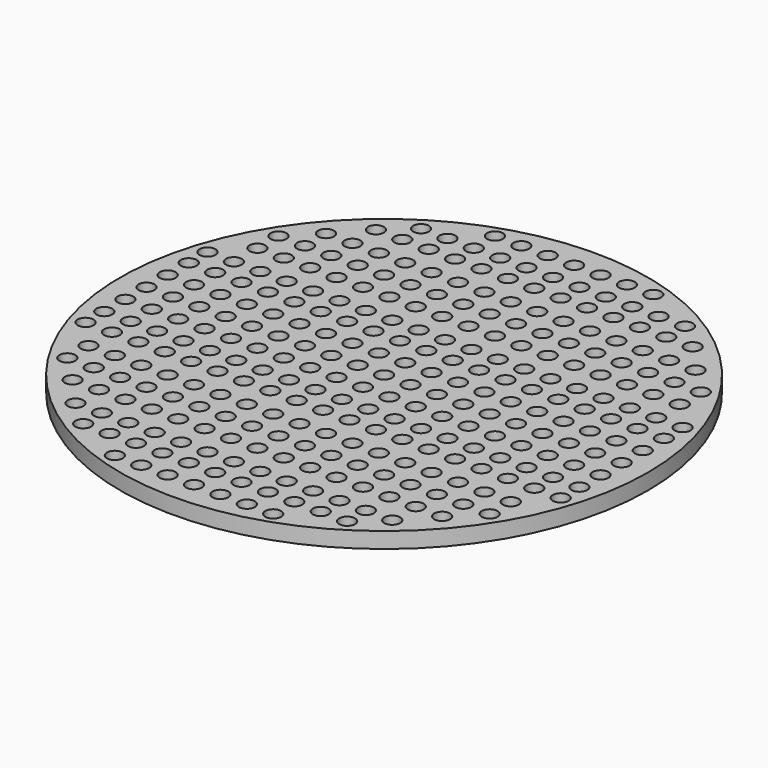
from build123d import *

# Parameters (mm, degrees)
F0_R     = 50
F0_R_2   = 1.5
F1_DEPTH = 3


with BuildPart() as f1:
    # F0 (on Top) → F1 (new body)
    with BuildSketch(Plane.XY):
        Circle(F0_R)
        with Locations((-30, -35.565041)):
            Circle(F0_R_2, mode=Mode.SUBTRACT)
        with Locations((-35, -30)):
            Circle(F0_R_2, mode=Mode.SUBTRACT)
        with Locations((-30, -30)):
            Circle(F0_R_2, mode=Mode.SUBTRACT)
        with Locations((-15, -45)):
            Circle(F0_R_2, mode=Mode.SUBTRACT)
        with Locations((-25, -40)):
            Circle(F0_R_2, mode=Mode.SUBTRACT)
        with Locations((-20, -40)):
            Circle(F0_R_2, mode=Mode.SUBTRACT)
        with Locations((-15, -40)):
            Circle(F0_R_2, mode=Mode.SUBTRACT)
        with Locations((-10, -45)):
            Circle(F0_R_2, mode=Mode.SUBTRACT)
        with Locations((-5, -45)):
            Circle(F0_R_2, mode=Mode.SUBTRACT)
        with Locations((-10, -40)):
            Circle(F0_R_2, mode=Mode.SUBTRACT)
        with Locations((-5, -40)):
            Circle(F0_R_2, mode=Mode.SUBTRACT)
        with Locations((-25, -35.565041)):
            Circle(F0_R_2, mode=Mode.SUBTRACT)
        with Locations((-20, -35.565041)):
            Circle(F0_R_2, mode=Mode.SUBTRACT)
        with Locations((-15, -35.565041)):
            Circle(F0_R_2, mode=Mode.SUBTRACT)
        with Locations((-25, -30)):
            Circle(F0_R_2, mode=Mode.SUBTRACT)
        with Locations((-20, -30)):
            Circle(F0_R_2, mode=Mode.SUBTRACT)
        with Locations((-15, -30)):
            Circle(F0_R_2, mode=Mode.SUBTRACT)
        with Locations((-10, -35.565041)):
            Circle(F0_R_2, mode=Mode.SUBTRACT)
        with Locations((-5, -35.565041)):
            Circle(F0_R_2, mode=Mode.SUBTRACT)
        with Locations((-10, -30)):
            Circle(F0_R_2, mode=Mode.SUBTRACT)
        with Locations((-5, -30)):
            Circle(F0_R_2, mode=Mode.SUBTRACT)
        with Locations((-40, -25)):
            Circle(F0_R_2, mode=Mode.SUBTRACT)
        with Locations((-40, -20)):
            Circle(F0_R_2, mode=Mode.SUBTRACT)
        with Locations((-45, -14.434959)):
            Circle(F0_R_2, mode=Mode.SUBTRACT)
        with Locations((-40, -14.434959)):
            Circle(F0_R_2, mode=Mode.SUBTRACT)
        with Locations((-35, -25)):
            Circle(F0_R_2, mode=Mode.SUBTRACT)
        with Locations((-35, -20)):
            Circle(F0_R_2, mode=Mode.SUBTRACT)
        with Locations((-30, -25)):
            Circle(F0_R_2, mode=Mode.SUBTRACT)
        with Locations((-30, -20)):
            Circle(F0_R_2, mode=Mode.SUBTRACT)
        with Locations((-35, -14.434959)):
            Circle(F0_R_2, mode=Mode.SUBTRACT)
        with Locations((-30, -14.434959)):
            Circle(F0_R_2, mode=Mode.SUBTRACT)
        with Locations((-45, -10)):
            Circle(F0_R_2, mode=Mode.SUBTRACT)
        with Locations((-40, -10)):
            Circle(F0_R_2, mode=Mode.SUBTRACT)
        with Locations((-45, -5)):
            Circle(F0_R_2, mode=Mode.SUBTRACT)
        with Locations((-40, -5)):
            Circle(F0_R_2, mode=Mode.SUBTRACT)
        with Locations((-35, -10)):
            Circle(F0_R_2, mode=Mode.SUBTRACT)
        with Locations((-30, -10)):
            Circle(F0_R_2, mode=Mode.SUBTRACT)
        with Locations((-35, -5)):
            Circle(F0_R_2, mode=Mode.SUBTRACT)
        with Locations((-30, -5)):
            Circle(F0_R_2, mode=Mode.SUBTRACT)
        with Locations((-25, -25)):
            Circle(F0_R_2, mode=Mode.SUBTRACT)
        with Locations((-20, -25)):
            Circle(F0_R_2, mode=Mode.SUBTRACT)
        with Locations((-25, -20)):
            Circle(F0_R_2, mode=Mode.SUBTRACT)
        with Locations((-20, -20)):
            Circle(F0_R_2, mode=Mode.SUBTRACT)
        with Locations((-15, -25)):
            Circle(F0_R_2, mode=Mode.SUBTRACT)
        with Locations((-15, -20)):
            Circle(F0_R_2, mode=Mode.SUBTRACT)
        with Locations((-25, -14.434959)):
            Circle(F0_R_2, mode=Mode.SUBTRACT)
        with Locations((-20, -14.434959)):
            Circle(F0_R_2, mode=Mode.SUBTRACT)
        with Locations((-15, -14.434959)):
            Circle(F0_R_2, mode=Mode.SUBTRACT)
        with Locations((-10, -25)):
            Circle(F0_R_2, mode=Mode.SUBTRACT)
        with Locations((-10, -20)):
            Circle(F0_R_2, mode=Mode.SUBTRACT)
        with Locations((-5, -25)):
            Circle(F0_R_2, mode=Mode.SUBTRACT)
        with Locations((-5, -20)):
            Circle(F0_R_2, mode=Mode.SUBTRACT)
        with Locations((-10, -14.434959)):
            Circle(F0_R_2, mode=Mode.SUBTRACT)
        with Locations((-5, -14.434959)):
            Circle(F0_R_2, mode=Mode.SUBTRACT)
        with Locations((-25, -10)):
            Circle(F0_R_2, mode=Mode.SUBTRACT)
        with Locations((-20, -10)):
            Circle(F0_R_2, mode=Mode.SUBTRACT)
        with Locations((-15, -10)):
            Circle(F0_R_2, mode=Mode.SUBTRACT)
        with Locations((-25, -5)):
            Circle(F0_R_2, mode=Mode.SUBTRACT)
        with Locations((-20, -5)):
            Circle(F0_R_2, mode=Mode.SUBTRACT)
        with Locations((-15, -5)):
            Circle(F0_R_2, mode=Mode.SUBTRACT)
        with Locations((-10, -10)):
            Circle(F0_R_2, mode=Mode.SUBTRACT)
        with Locations((-5, -10)):
            Circle(F0_R_2, mode=Mode.SUBTRACT)
        with Locations((-10, -5)):
            Circle(F0_R_2, mode=Mode.SUBTRACT)
        with Locations((-5, -5)):
            Circle(F0_R_2, mode=Mode.SUBTRACT)
        with Locations((0, -45)):
            Circle(F0_R_2, mode=Mode.SUBTRACT)
        with Locations((5, -45)):
            Circle(F0_R_2, mode=Mode.SUBTRACT)
        with Locations((10, -45)):
            Circle(F0_R_2, mode=Mode.SUBTRACT)
        with Locations((0, -40)):
            Circle(F0_R_2, mode=Mode.SUBTRACT)
        with Locations((5, -40)):
            Circle(F0_R_2, mode=Mode.SUBTRACT)
        with Locations((10, -40)):
            Circle(F0_R_2, mode=Mode.SUBTRACT)
        with Locations((15, -45)):
            Circle(F0_R_2, mode=Mode.SUBTRACT)
        with Locations((15, -40)):
            Circle(F0_R_2, mode=Mode.SUBTRACT)
        with Locations((20, -40)):
            Circle(F0_R_2, mode=Mode.SUBTRACT)
        with Locations((0, -35.565041)):
            Circle(F0_R_2, mode=Mode.SUBTRACT)
        with Locations((5, -35.565041)):
            Circle(F0_R_2, mode=Mode.SUBTRACT)
        with Locations((10, -35.565041)):
            Circle(F0_R_2, mode=Mode.SUBTRACT)
        with Locations((0, -30)):
            Circle(F0_R_2, mode=Mode.SUBTRACT)
        with Locations((5, -30)):
            Circle(F0_R_2, mode=Mode.SUBTRACT)
        with Locations((10, -30)):
            Circle(F0_R_2, mode=Mode.SUBTRACT)
        with Locations((15, -35.565041)):
            Circle(F0_R_2, mode=Mode.SUBTRACT)
        with Locations((20, -35.565041)):
            Circle(F0_R_2, mode=Mode.SUBTRACT)
        with Locations((15, -30)):
            Circle(F0_R_2, mode=Mode.SUBTRACT)
        with Locations((20, -30)):
            Circle(F0_R_2, mode=Mode.SUBTRACT)
        with Locations((25, -40)):
            Circle(F0_R_2, mode=Mode.SUBTRACT)
        with Locations((25, -35.565041)):
            Circle(F0_R_2, mode=Mode.SUBTRACT)
        with Locations((30, -35.565041)):
            Circle(F0_R_2, mode=Mode.SUBTRACT)
        with Locations((25, -30)):
            Circle(F0_R_2, mode=Mode.SUBTRACT)
        with Locations((30, -30)):
            Circle(F0_R_2, mode=Mode.SUBTRACT)
        with Locations((35, -30)):
            Circle(F0_R_2, mode=Mode.SUBTRACT)
        with Locations((0, -25)):
            Circle(F0_R_2, mode=Mode.SUBTRACT)
        with Locations((5, -25)):
            Circle(F0_R_2, mode=Mode.SUBTRACT)
        with Locations((0, -20)):
            Circle(F0_R_2, mode=Mode.SUBTRACT)
        with Locations((5, -20)):
            Circle(F0_R_2, mode=Mode.SUBTRACT)
        with Locations((10, -25)):
            Circle(F0_R_2, mode=Mode.SUBTRACT)
        with Locations((10, -20)):
            Circle(F0_R_2, mode=Mode.SUBTRACT)
        with Locations((0, -14.434959)):
            Circle(F0_R_2, mode=Mode.SUBTRACT)
        with Locations((5, -14.434959)):
            Circle(F0_R_2, mode=Mode.SUBTRACT)
        with Locations((10, -14.434959)):
            Circle(F0_R_2, mode=Mode.SUBTRACT)
        with Locations((15, -25)):
            Circle(F0_R_2, mode=Mode.SUBTRACT)
        with Locations((15, -20)):
            Circle(F0_R_2, mode=Mode.SUBTRACT)
        with Locations((20, -25)):
            Circle(F0_R_2, mode=Mode.SUBTRACT)
        with Locations((20, -20)):
            Circle(F0_R_2, mode=Mode.SUBTRACT)
        with Locations((15, -14.434959)):
            Circle(F0_R_2, mode=Mode.SUBTRACT)
        with Locations((20, -14.434959)):
            Circle(F0_R_2, mode=Mode.SUBTRACT)
        with Locations((0, -10)):
            Circle(F0_R_2, mode=Mode.SUBTRACT)
        with Locations((5, -10)):
            Circle(F0_R_2, mode=Mode.SUBTRACT)
        with Locations((10, -10)):
            Circle(F0_R_2, mode=Mode.SUBTRACT)
        with Locations((0, -5)):
            Circle(F0_R_2, mode=Mode.SUBTRACT)
        with Locations((5, -5)):
            Circle(F0_R_2, mode=Mode.SUBTRACT)
        with Locations((10, -5)):
            Circle(F0_R_2, mode=Mode.SUBTRACT)
        with Locations((15, -10)):
            Circle(F0_R_2, mode=Mode.SUBTRACT)
        with Locations((20, -10)):
            Circle(F0_R_2, mode=Mode.SUBTRACT)
        with Locations((15, -5)):
            Circle(F0_R_2, mode=Mode.SUBTRACT)
        with Locations((20, -5)):
            Circle(F0_R_2, mode=Mode.SUBTRACT)
        with Locations((25, -25)):
            Circle(F0_R_2, mode=Mode.SUBTRACT)
        with Locations((30, -25)):
            Circle(F0_R_2, mode=Mode.SUBTRACT)
        with Locations((25, -20)):
            Circle(F0_R_2, mode=Mode.SUBTRACT)
        with Locations((30, -20)):
            Circle(F0_R_2, mode=Mode.SUBTRACT)
        with Locations((35, -25)):
            Circle(F0_R_2, mode=Mode.SUBTRACT)
        with Locations((35, -20)):
            Circle(F0_R_2, mode=Mode.SUBTRACT)
        with Locations((25, -14.434959)):
            Circle(F0_R_2, mode=Mode.SUBTRACT)
        with Locations((30, -14.434959)):
            Circle(F0_R_2, mode=Mode.SUBTRACT)
        with Locations((35, -14.434959)):
            Circle(F0_R_2, mode=Mode.SUBTRACT)
        with Locations((40, -25)):
            Circle(F0_R_2, mode=Mode.SUBTRACT)
        with Locations((40, -20)):
            Circle(F0_R_2, mode=Mode.SUBTRACT)
        with Locations((40, -14.434959)):
            Circle(F0_R_2, mode=Mode.SUBTRACT)
        with Locations((45, -14.434959)):
            Circle(F0_R_2, mode=Mode.SUBTRACT)
        with Locations((25, -10)):
            Circle(F0_R_2, mode=Mode.SUBTRACT)
        with Locations((30, -10)):
            Circle(F0_R_2, mode=Mode.SUBTRACT)
        with Locations((35, -10)):
            Circle(F0_R_2, mode=Mode.SUBTRACT)
        with Locations((25, -5)):
            Circle(F0_R_2, mode=Mode.SUBTRACT)
        with Locations((30, -5)):
            Circle(F0_R_2, mode=Mode.SUBTRACT)
        with Locations((35, -5)):
            Circle(F0_R_2, mode=Mode.SUBTRACT)
        with Locations((40, -10)):
            Circle(F0_R_2, mode=Mode.SUBTRACT)
        with Locations((45, -10)):
            Circle(F0_R_2, mode=Mode.SUBTRACT)
        with Locations((40, -5)):
            Circle(F0_R_2, mode=Mode.SUBTRACT)
        with Locations((45, -5)):
            Circle(F0_R_2, mode=Mode.SUBTRACT)
        with Locations((-45, 0)):
            Circle(F0_R_2, mode=Mode.SUBTRACT)
        with Locations((-45, 5)):
            Circle(F0_R_2, mode=Mode.SUBTRACT)
        with Locations((-40, 0)):
            Circle(F0_R_2, mode=Mode.SUBTRACT)
        with Locations((-40, 5)):
            Circle(F0_R_2, mode=Mode.SUBTRACT)
        with Locations((-45, 10)):
            Circle(F0_R_2, mode=Mode.SUBTRACT)
        with Locations((-40, 10)):
            Circle(F0_R_2, mode=Mode.SUBTRACT)
        with Locations((-35, 0)):
            Circle(F0_R_2, mode=Mode.SUBTRACT)
        with Locations((-35, 5)):
            Circle(F0_R_2, mode=Mode.SUBTRACT)
        with Locations((-30, 0)):
            Circle(F0_R_2, mode=Mode.SUBTRACT)
        with Locations((-30, 5)):
            Circle(F0_R_2, mode=Mode.SUBTRACT)
        with Locations((-35, 10)):
            Circle(F0_R_2, mode=Mode.SUBTRACT)
        with Locations((-30, 10)):
            Circle(F0_R_2, mode=Mode.SUBTRACT)
        with Locations((-45, 14.434959)):
            Circle(F0_R_2, mode=Mode.SUBTRACT)
        with Locations((-40, 14.434959)):
            Circle(F0_R_2, mode=Mode.SUBTRACT)
        with Locations((-40, 20)):
            Circle(F0_R_2, mode=Mode.SUBTRACT)
        with Locations((-35, 14.434959)):
            Circle(F0_R_2, mode=Mode.SUBTRACT)
        with Locations((-30, 14.434959)):
            Circle(F0_R_2, mode=Mode.SUBTRACT)
        with Locations((-35, 20)):
            Circle(F0_R_2, mode=Mode.SUBTRACT)
        with Locations((-30, 20)):
            Circle(F0_R_2, mode=Mode.SUBTRACT)
        with Locations((-25, 0)):
            Circle(F0_R_2, mode=Mode.SUBTRACT)
        with Locations((-20, 0)):
            Circle(F0_R_2, mode=Mode.SUBTRACT)
        with Locations((-25, 5)):
            Circle(F0_R_2, mode=Mode.SUBTRACT)
        with Locations((-20, 5)):
            Circle(F0_R_2, mode=Mode.SUBTRACT)
        with Locations((-15, 0)):
            Circle(F0_R_2, mode=Mode.SUBTRACT)
        with Locations((-15, 5)):
            Circle(F0_R_2, mode=Mode.SUBTRACT)
        with Locations((-25, 10)):
            Circle(F0_R_2, mode=Mode.SUBTRACT)
        with Locations((-20, 10)):
            Circle(F0_R_2, mode=Mode.SUBTRACT)
        with Locations((-15, 10)):
            Circle(F0_R_2, mode=Mode.SUBTRACT)
        with Locations((-10, 0)):
            Circle(F0_R_2, mode=Mode.SUBTRACT)
        with Locations((-10, 5)):
            Circle(F0_R_2, mode=Mode.SUBTRACT)
        with Locations((-5, 0)):
            Circle(F0_R_2, mode=Mode.SUBTRACT)
        with Locations((-5, 5)):
            Circle(F0_R_2, mode=Mode.SUBTRACT)
        with Locations((-10, 10)):
            Circle(F0_R_2, mode=Mode.SUBTRACT)
        with Locations((-5, 10)):
            Circle(F0_R_2, mode=Mode.SUBTRACT)
        with Locations((-25, 14.434959)):
            Circle(F0_R_2, mode=Mode.SUBTRACT)
        with Locations((-20, 14.434959)):
            Circle(F0_R_2, mode=Mode.SUBTRACT)
        with Locations((-15, 14.434959)):
            Circle(F0_R_2, mode=Mode.SUBTRACT)
        with Locations((-25, 20)):
            Circle(F0_R_2, mode=Mode.SUBTRACT)
        with Locations((-20, 20)):
            Circle(F0_R_2, mode=Mode.SUBTRACT)
        with Locations((-15, 20)):
            Circle(F0_R_2, mode=Mode.SUBTRACT)
        with Locations((-10, 14.434959)):
            Circle(F0_R_2, mode=Mode.SUBTRACT)
        with Locations((-5, 14.434959)):
            Circle(F0_R_2, mode=Mode.SUBTRACT)
        with Locations((-10, 20)):
            Circle(F0_R_2, mode=Mode.SUBTRACT)
        with Locations((-5, 20)):
            Circle(F0_R_2, mode=Mode.SUBTRACT)
        with Locations((-40, 25)):
            Circle(F0_R_2, mode=Mode.SUBTRACT)
        with Locations((-35, 25)):
            Circle(F0_R_2, mode=Mode.SUBTRACT)
        with Locations((-35, 30)):
            Circle(F0_R_2, mode=Mode.SUBTRACT)
        with Locations((-30, 25)):
            Circle(F0_R_2, mode=Mode.SUBTRACT)
        with Locations((-30, 30)):
            Circle(F0_R_2, mode=Mode.SUBTRACT)
        with Locations((-30, 35.565041)):
            Circle(F0_R_2, mode=Mode.SUBTRACT)
        with Locations((-25, 25)):
            Circle(F0_R_2, mode=Mode.SUBTRACT)
        with Locations((-20, 25)):
            Circle(F0_R_2, mode=Mode.SUBTRACT)
        with Locations((-25, 30)):
            Circle(F0_R_2, mode=Mode.SUBTRACT)
        with Locations((-20, 30)):
            Circle(F0_R_2, mode=Mode.SUBTRACT)
        with Locations((-15, 25)):
            Circle(F0_R_2, mode=Mode.SUBTRACT)
        with Locations((-15, 30)):
            Circle(F0_R_2, mode=Mode.SUBTRACT)
        with Locations((-25, 35.565041)):
            Circle(F0_R_2, mode=Mode.SUBTRACT)
        with Locations((-20, 35.565041)):
            Circle(F0_R_2, mode=Mode.SUBTRACT)
        with Locations((-15, 35.565041)):
            Circle(F0_R_2, mode=Mode.SUBTRACT)
        with Locations((-10, 25)):
            Circle(F0_R_2, mode=Mode.SUBTRACT)
        with Locations((-10, 30)):
            Circle(F0_R_2, mode=Mode.SUBTRACT)
        with Locations((-5, 25)):
            Circle(F0_R_2, mode=Mode.SUBTRACT)
        with Locations((-5, 30)):
            Circle(F0_R_2, mode=Mode.SUBTRACT)
        with Locations((-10, 35.565041)):
            Circle(F0_R_2, mode=Mode.SUBTRACT)
        with Locations((-5, 35.565041)):
            Circle(F0_R_2, mode=Mode.SUBTRACT)
        with Locations((-25, 40)):
            Circle(F0_R_2, mode=Mode.SUBTRACT)
        with Locations((-20, 40)):
            Circle(F0_R_2, mode=Mode.SUBTRACT)
        with Locations((-15, 40)):
            Circle(F0_R_2, mode=Mode.SUBTRACT)
        with Locations((-15, 45)):
            Circle(F0_R_2, mode=Mode.SUBTRACT)
        with Locations((-10, 40)):
            Circle(F0_R_2, mode=Mode.SUBTRACT)
        with Locations((-5, 40)):
            Circle(F0_R_2, mode=Mode.SUBTRACT)
        with Locations((-10, 45)):
            Circle(F0_R_2, mode=Mode.SUBTRACT)
        with Locations((-5, 45)):
            Circle(F0_R_2, mode=Mode.SUBTRACT)
        Circle(F0_R_2, mode=Mode.SUBTRACT)
        with Locations((5, 0)):
            Circle(F0_R_2, mode=Mode.SUBTRACT)
        with Locations((0, 5)):
            Circle(F0_R_2, mode=Mode.SUBTRACT)
        with Locations((5, 5)):
            Circle(F0_R_2, mode=Mode.SUBTRACT)
        with Locations((10, 0)):
            Circle(F0_R_2, mode=Mode.SUBTRACT)
        with Locations((10, 5)):
            Circle(F0_R_2, mode=Mode.SUBTRACT)
        with Locations((0, 10)):
            Circle(F0_R_2, mode=Mode.SUBTRACT)
        with Locations((5, 10)):
            Circle(F0_R_2, mode=Mode.SUBTRACT)
        with Locations((10, 10)):
            Circle(F0_R_2, mode=Mode.SUBTRACT)
        with Locations((15, 0)):
            Circle(F0_R_2, mode=Mode.SUBTRACT)
        with Locations((15, 5)):
            Circle(F0_R_2, mode=Mode.SUBTRACT)
        with Locations((20, 0)):
            Circle(F0_R_2, mode=Mode.SUBTRACT)
        with Locations((20, 5)):
            Circle(F0_R_2, mode=Mode.SUBTRACT)
        with Locations((15, 10)):
            Circle(F0_R_2, mode=Mode.SUBTRACT)
        with Locations((20, 10)):
            Circle(F0_R_2, mode=Mode.SUBTRACT)
        with Locations((0, 14.434959)):
            Circle(F0_R_2, mode=Mode.SUBTRACT)
        with Locations((5, 14.434959)):
            Circle(F0_R_2, mode=Mode.SUBTRACT)
        with Locations((10, 14.434959)):
            Circle(F0_R_2, mode=Mode.SUBTRACT)
        with Locations((0, 20)):
            Circle(F0_R_2, mode=Mode.SUBTRACT)
        with Locations((5, 20)):
            Circle(F0_R_2, mode=Mode.SUBTRACT)
        with Locations((10, 20)):
            Circle(F0_R_2, mode=Mode.SUBTRACT)
        with Locations((15, 14.434959)):
            Circle(F0_R_2, mode=Mode.SUBTRACT)
        with Locations((20, 14.434959)):
            Circle(F0_R_2, mode=Mode.SUBTRACT)
        with Locations((15, 20)):
            Circle(F0_R_2, mode=Mode.SUBTRACT)
        with Locations((20, 20)):
            Circle(F0_R_2, mode=Mode.SUBTRACT)
        with Locations((25, 0)):
            Circle(F0_R_2, mode=Mode.SUBTRACT)
        with Locations((30, 0)):
            Circle(F0_R_2, mode=Mode.SUBTRACT)
        with Locations((25, 5)):
            Circle(F0_R_2, mode=Mode.SUBTRACT)
        with Locations((30, 5)):
            Circle(F0_R_2, mode=Mode.SUBTRACT)
        with Locations((35, 0)):
            Circle(F0_R_2, mode=Mode.SUBTRACT)
        with Locations((35, 5)):
            Circle(F0_R_2, mode=Mode.SUBTRACT)
        with Locations((25, 10)):
            Circle(F0_R_2, mode=Mode.SUBTRACT)
        with Locations((30, 10)):
            Circle(F0_R_2, mode=Mode.SUBTRACT)
        with Locations((35, 10)):
            Circle(F0_R_2, mode=Mode.SUBTRACT)
        with Locations((40, 0)):
            Circle(F0_R_2, mode=Mode.SUBTRACT)
        with Locations((40, 5)):
            Circle(F0_R_2, mode=Mode.SUBTRACT)
        with Locations((45, 0)):
            Circle(F0_R_2, mode=Mode.SUBTRACT)
        with Locations((45, 5)):
            Circle(F0_R_2, mode=Mode.SUBTRACT)
        with Locations((40, 10)):
            Circle(F0_R_2, mode=Mode.SUBTRACT)
        with Locations((45, 10)):
            Circle(F0_R_2, mode=Mode.SUBTRACT)
        with Locations((25, 14.434959)):
            Circle(F0_R_2, mode=Mode.SUBTRACT)
        with Locations((30, 14.434959)):
            Circle(F0_R_2, mode=Mode.SUBTRACT)
        with Locations((35, 14.434959)):
            Circle(F0_R_2, mode=Mode.SUBTRACT)
        with Locations((25, 20)):
            Circle(F0_R_2, mode=Mode.SUBTRACT)
        with Locations((30, 20)):
            Circle(F0_R_2, mode=Mode.SUBTRACT)
        with Locations((35, 20)):
            Circle(F0_R_2, mode=Mode.SUBTRACT)
        with Locations((40, 14.434959)):
            Circle(F0_R_2, mode=Mode.SUBTRACT)
        with Locations((45, 14.434959)):
            Circle(F0_R_2, mode=Mode.SUBTRACT)
        with Locations((40, 20)):
            Circle(F0_R_2, mode=Mode.SUBTRACT)
        with Locations((0, 25)):
            Circle(F0_R_2, mode=Mode.SUBTRACT)
        with Locations((5, 25)):
            Circle(F0_R_2, mode=Mode.SUBTRACT)
        with Locations((0, 30)):
            Circle(F0_R_2, mode=Mode.SUBTRACT)
        with Locations((5, 30)):
            Circle(F0_R_2, mode=Mode.SUBTRACT)
        with Locations((10, 25)):
            Circle(F0_R_2, mode=Mode.SUBTRACT)
        with Locations((10, 30)):
            Circle(F0_R_2, mode=Mode.SUBTRACT)
        with Locations((0, 35.565041)):
            Circle(F0_R_2, mode=Mode.SUBTRACT)
        with Locations((5, 35.565041)):
            Circle(F0_R_2, mode=Mode.SUBTRACT)
        with Locations((10, 35.565041)):
            Circle(F0_R_2, mode=Mode.SUBTRACT)
        with Locations((15, 25)):
            Circle(F0_R_2, mode=Mode.SUBTRACT)
        with Locations((15, 30)):
            Circle(F0_R_2, mode=Mode.SUBTRACT)
        with Locations((20, 25)):
            Circle(F0_R_2, mode=Mode.SUBTRACT)
        with Locations((20, 30)):
            Circle(F0_R_2, mode=Mode.SUBTRACT)
        with Locations((15, 35.565041)):
            Circle(F0_R_2, mode=Mode.SUBTRACT)
        with Locations((20, 35.565041)):
            Circle(F0_R_2, mode=Mode.SUBTRACT)
        with Locations((0, 40)):
            Circle(F0_R_2, mode=Mode.SUBTRACT)
        with Locations((5, 40)):
            Circle(F0_R_2, mode=Mode.SUBTRACT)
        with Locations((10, 40)):
            Circle(F0_R_2, mode=Mode.SUBTRACT)
        with Locations((0, 45)):
            Circle(F0_R_2, mode=Mode.SUBTRACT)
        with Locations((5, 45)):
            Circle(F0_R_2, mode=Mode.SUBTRACT)
        with Locations((10, 45)):
            Circle(F0_R_2, mode=Mode.SUBTRACT)
        with Locations((15, 40)):
            Circle(F0_R_2, mode=Mode.SUBTRACT)
        with Locations((20, 40)):
            Circle(F0_R_2, mode=Mode.SUBTRACT)
        with Locations((15, 45)):
            Circle(F0_R_2, mode=Mode.SUBTRACT)
        with Locations((25, 25)):
            Circle(F0_R_2, mode=Mode.SUBTRACT)
        with Locations((30, 25)):
            Circle(F0_R_2, mode=Mode.SUBTRACT)
        with Locations((25, 30)):
            Circle(F0_R_2, mode=Mode.SUBTRACT)
        with Locations((30, 30)):
            Circle(F0_R_2, mode=Mode.SUBTRACT)
        with Locations((35, 25)):
            Circle(F0_R_2, mode=Mode.SUBTRACT)
        with Locations((35, 30)):
            Circle(F0_R_2, mode=Mode.SUBTRACT)
        with Locations((25, 35.565041)):
            Circle(F0_R_2, mode=Mode.SUBTRACT)
        with Locations((30, 35.565041)):
            Circle(F0_R_2, mode=Mode.SUBTRACT)
        with Locations((40, 25)):
            Circle(F0_R_2, mode=Mode.SUBTRACT)
        with Locations((25, 40)):
            Circle(F0_R_2, mode=Mode.SUBTRACT)
    extrude(amount=F1_DEPTH)


solid = f1.part
